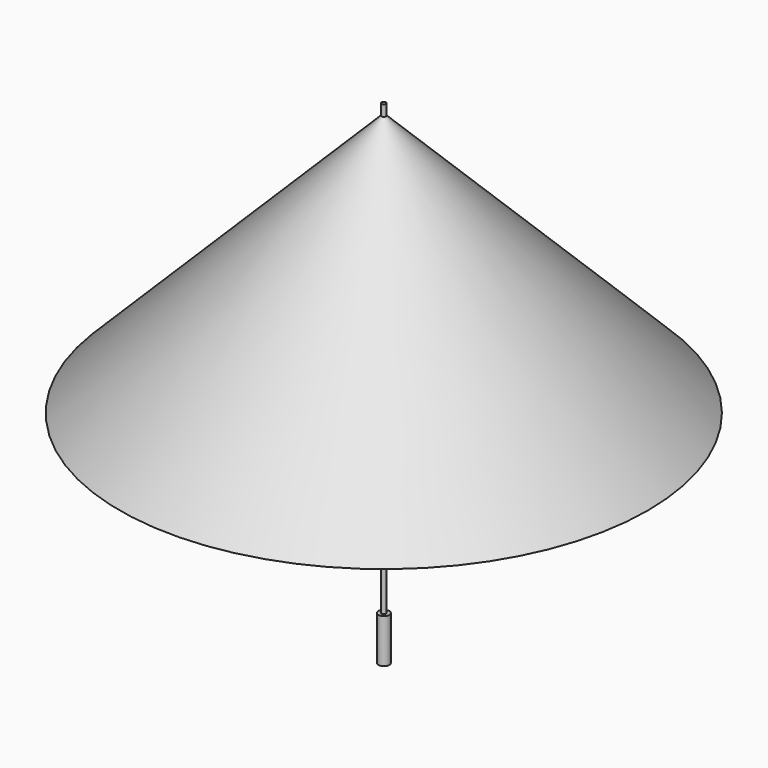
from build123d import *

# Parameters (mm, degrees)
F4_R          = 12.7
F5_DEPTH      = 1574.8
F5_DEPTH_BACK = 1016
F6_R          = 31.75
F7_DEPTH      = 254


with BuildPart() as f1:
    # F0 (on Front) → F1 (revolve)
    with BuildSketch(Plane.XZ):
        Polygon((0, 1524), (0, 0), (1524, 0), align=None)
    revolve(axis=Axis((0, 0, 762), (0, 0, 1)))

    # F2 (on Front) → F3 (revolve, cut)
    with BuildSketch(Plane.XZ):
        Polygon((0, 1472.7621078491), (0, 0), (1511.3, 0), align=None)
    revolve(axis=Axis((0, 0, 736.3810539246), (0, 0, -1)), mode=Mode.SUBTRACT)

    # F4 (on face) → F5 (join, two sides)
    with BuildSketch(Plane(origin=(0, 0, 0), x_dir=(1, 0, 0), z_dir=(0, 0, -1))) as f5_sk:
        Circle(F4_R)
    extrude(amount=-F5_DEPTH)
    extrude(f5_sk.sketch, amount=F5_DEPTH_BACK)

    # F6 (on face) → F7 (join)
    with BuildSketch(Plane(origin=(0, 0, -1016), x_dir=(1, 0, 0), z_dir=(0, 0, -1))):
        Circle(F6_R)
    extrude(amount=F7_DEPTH)


solid = f1.part
